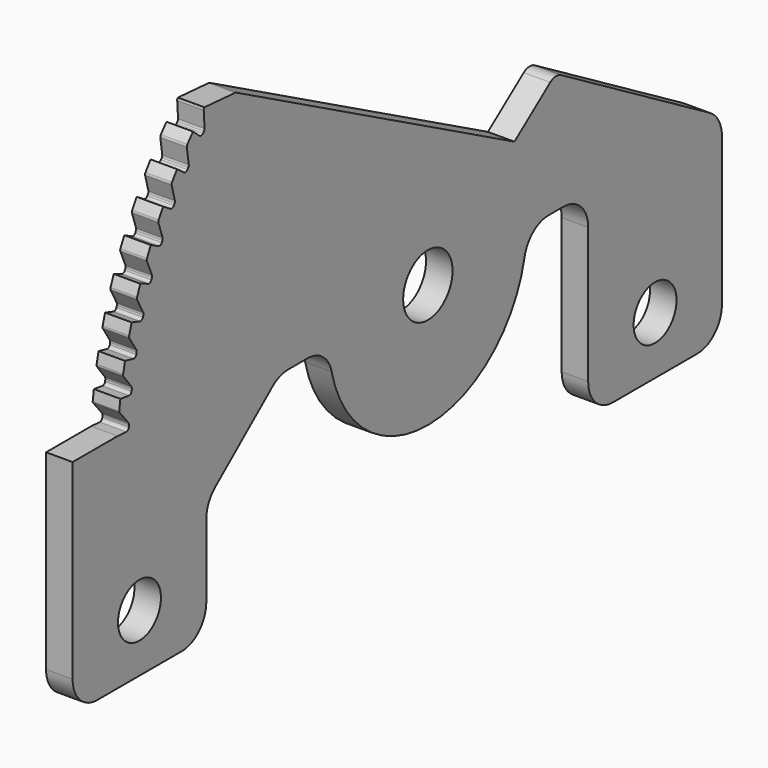
from build123d import *

# Parameters (mm, degrees)
F0_R     = 4.35
F0_R_2   = 5
F1_DEPTH = 4.3


with BuildPart() as f1:
    # F0 (on Right) → F1 (new body)
    with BuildSketch(Plane.YZ):
        with BuildLine():
            Line((-22.1, 0), (-5, 0))
            ThreePointArc((-5, 0), (-1.464466, 1.464466), (0, 5))
            Line((0, 5), (0, 29.037729))
            ThreePointArc((0, 29.037729), (-0.662326, 31.524611), (-2.473833, 33.352642))
            Line((-2.473833, 33.352642), (-32.57476, 50.975239))
            ThreePointArc((-32.57476, 50.975239), (-33.70512, 51.245677), (-34.79499, 50.841905))
            Line((-34.79499, 50.841905), (-42.052337, 45.329218))
            Line((-42.052337, 45.329218), (-98.45379, 75.262621))
            ThreePointArc((-98.45379, 75.262621), (-98.549794, 75.301433), (-98.651734, 75.319636))
            Line((-98.651734, 75.319636), (-104.857779, 75.773284))
            ThreePointArc((-104.857779, 75.773284), (-104.881835, 75.769417), (-104.901607, 75.755178))
            ThreePointArc((-104.901607, 75.755178), (-104.997551, 75.587599), (-105.022838, 75.396161))
            Line((-105.022838, 75.396161), (-104.855972, 72.750564))
            ThreePointArc((-104.855972, 72.750564), (-104.882304, 72.556066), (-104.98147, 72.386689))
            ThreePointArc((-104.98147, 72.386689), (-105.0797, 72.27604), (-105.177659, 72.165152))
            ThreePointArc((-105.177659, 72.165152), (-105.519248, 71.996856), (-105.880288, 72.117919))
            Line((-105.880288, 72.117919), (-107.19123, 73.254305))
            ThreePointArc((-107.19123, 73.254305), (-107.768907, 72.57831), (-108.336982, 71.894228))
            ThreePointArc((-108.336982, 71.894228), (-108.432061, 71.710527), (-108.44465, 71.504063))
            Line((-108.44465, 71.504063), (-108.056233, 68.888956))
            ThreePointArc((-108.056233, 68.888956), (-108.06619, 68.692429), (-108.151209, 68.514964))
            ThreePointArc((-108.151209, 68.514964), (-108.239818, 68.396849), (-108.328139, 68.27852))
            ThreePointArc((-108.328139, 68.27852), (-108.65472, 68.082686), (-109.024498, 68.17363))
            Line((-109.024498, 68.17363), (-110.424503, 69.198289))
            ThreePointArc((-110.424503, 69.198289), (-110.941832, 68.480942), (-111.449037, 67.756402))
            ThreePointArc((-111.449037, 67.756402), (-111.530067, 67.558002), (-111.520592, 67.343902))
            Line((-111.520592, 67.343902), (-110.867678, 64.891617))
            ThreePointArc((-110.867678, 64.891617), (-110.856617, 64.687221), (-110.92839, 64.495521))
            ThreePointArc((-110.92839, 64.495521), (-111.004676, 64.374709), (-111.080678, 64.253718))
            ThreePointArc((-111.080678, 64.253718), (-111.390502, 64.032323), (-111.766382, 64.093319))
            Line((-111.766382, 64.093319), (-113.244054, 65.002399))
            ThreePointArc((-113.244054, 65.002399), (-113.70347, 64.243719), (-114.152157, 63.478645))
            ThreePointArc((-114.152157, 63.478645), (-114.216631, 63.278226), (-114.192891, 63.069034))
            Line((-114.192891, 63.069034), (-113.365453, 60.614331))
            ThreePointArc((-113.365453, 60.614331), (-113.340818, 60.415154), (-113.396489, 60.222336))
            ThreePointArc((-113.396489, 60.222336), (-113.463838, 60.093583), (-113.53088, 59.964669))
            ThreePointArc((-113.53088, 59.964669), (-113.821693, 59.718835), (-114.201286, 59.749091))
            Line((-114.201286, 59.749091), (-115.74793, 60.535116))
            ThreePointArc((-115.74793, 60.535116), (-116.14419, 59.74162), (-116.529237, 58.942622))
            ThreePointArc((-116.529237, 58.942622), (-116.577215, 58.737628), (-116.536559, 58.531056))
            Line((-116.536559, 58.531056), (-115.512428, 56.151691))
            ThreePointArc((-115.512428, 56.151691), (-115.471694, 55.955174), (-115.511515, 55.758471))
            ThreePointArc((-115.511515, 55.758471), (-115.568182, 55.624671), (-115.624528, 55.490737))
            ThreePointArc((-115.624528, 55.490737), (-115.894408, 55.222089), (-116.275204, 55.221406))
            Line((-116.275204, 55.221406), (-117.880594, 55.879179))
            Line((-117.880594, 55.879179), (-118.52994, 54.228474))
            ThreePointArc((-118.52994, 54.228474), (-118.561106, 54.020259), (-118.503801, 53.817674))
            Line((-118.503801, 53.817674), (-117.28975, 51.529377))
            ThreePointArc((-117.28975, 51.529377), (-117.233185, 51.336819), (-117.256894, 51.137531))
            ThreePointArc((-117.256894, 51.137531), (-117.302503, 50.99957), (-117.347782, 50.861501))
            ThreePointArc((-117.347782, 50.861501), (-117.594943, 50.571815), (-117.974426, 50.540197))
            Line((-117.974426, 50.540197), (-119.627948, 51.06537))
            ThreePointArc((-119.627948, 51.06537), (-119.890472, 50.218175), (-120.141039, 49.367367))
            ThreePointArc((-120.141039, 49.367367), (-120.155186, 49.157308), (-120.081612, 48.960048))
            Line((-120.081612, 48.960048), (-118.684637, 46.776338))
            ThreePointArc((-118.684637, 46.776338), (-118.61281, 46.590175), (-118.619501, 46.390749))
            Line((-118.619501, 46.390749), (-118.68725, 46.107071))
            ThreePointArc((-118.68725, 46.107071), (-118.910066, 45.798287), (-119.285711, 45.735952))
            Line((-119.285711, 45.735952), (-120.978439, 46.125513))
            Line((-120.978439, 46.125513), (-121.351884, 44.391438))
            ThreePointArc((-121.351884, 44.391438), (-121.348918, 44.180925), (-121.259561, 43.990294))
            Line((-121.259561, 43.990294), (-119.690523, 41.928256))
            ThreePointArc((-119.690523, 41.928256), (-119.606388, 41.758287), (-119.591605, 41.569211))
            ThreePointArc((-119.591605, 41.569211), (-119.592977, 41.558197), (-119.594592, 41.547217))
            Line((-119.594592, 41.547217), (-119.640055, 41.26036))
            ThreePointArc((-119.640055, 41.26036), (-119.83704, 40.934471), (-120.206393, 40.841815))
            Line((-120.206393, 40.841815), (-121.923138, 41.092269))
            ThreePointArc((-121.923138, 41.092269), (-122.041201, 40.24253), (-122.147679, 39.391262))
            ThreePointArc((-122.147679, 39.391262), (-122.110207, 39.260888), (-122.03907, 39.145384))
            Line((-122.03907, 39.145384), (-120.283735, 37.010276))
            ThreePointArc((-120.283735, 37.010276), (-120.193147, 36.843224), (-120.171435, 36.654436))
            ThreePointArc((-120.171435, 36.654436), (-120.182866, 36.503198), (-120.19392, 36.351932))
            ThreePointArc((-120.19392, 36.351932), (-120.363778, 36.011117), (-120.724382, 35.888759))
            Line((-120.724382, 35.888759), (-122.472888, 36))
            Line((-122.472888, 36), (-131.6, 36))
            Line((-131.6, 36), (-131.6, 5))
            ThreePointArc((-131.6, 5), (-130.135534, 1.464466), (-126.6, 0))
            Line((-126.6, 0), (-109.5, 0))
            ThreePointArc((-109.5, 0), (-105.964466, 1.464466), (-104.5, 5))
            Line((-104.5, 5), (-104.5, 16.84052))
            ThreePointArc((-104.5, 16.84052), (-104.025137, 18.967287), (-102.690745, 20.690085))
            Line((-102.690745, 20.690085), (-91.09576, 30.300687))
            ThreePointArc((-91.09576, 30.300687), (-89.600918, 31.154729), (-87.905015, 31.451123))
            Line((-87.905015, 31.451123), (-83.976422, 31.451123))
            ThreePointArc((-83.976422, 31.451123), (-80.857839, 30.359375), (-79.101138, 27.560898))
            ThreePointArc((-79.101138, 27.560898), (-59.369338, 12.00133), (-40.001664, 28.011865))
            ThreePointArc((-40.001664, 28.011865), (-38.26553, 30.886857), (-35.10208, 32.014832))
            Line((-35.10208, 32.014832), (-32.1, 32.014832))
            ThreePointArc((-32.1, 32.014832), (-28.564466, 30.550365), (-27.1, 27.014832))
            Line((-27.1, 27.014832), (-27.1, 5))
            ThreePointArc((-27.1, 5), (-25.635534, 1.464466), (-22.1, 0))
        make_face()
        with Locations((-118.05, 9.35)):
            Circle(F0_R, mode=Mode.SUBTRACT)
        with Locations((-13.55, 9.35)):
            Circle(F0_R, mode=Mode.SUBTRACT)
        with Locations((-59.6, 32)):
            Circle(F0_R_2, mode=Mode.SUBTRACT)
    extrude(amount=F1_DEPTH)


solid = f1.part
